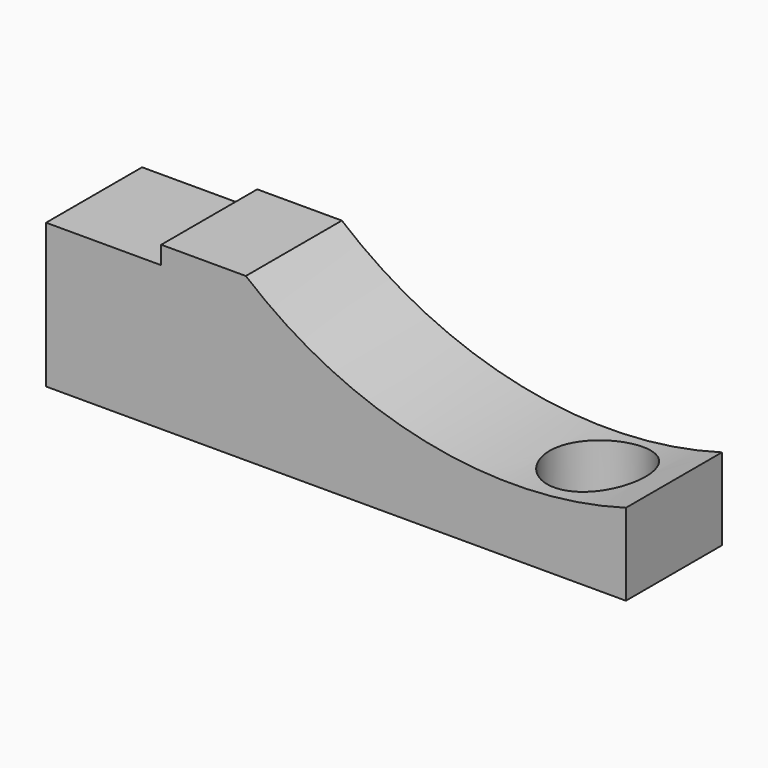
from build123d import *

# Parameters (mm, degrees)
F1_DEPTH = 25.4
F3_D     = 20.32


with BuildPart() as f1:
    # F0 (on Front) → F1 (new body)
    with BuildSketch(Plane.XZ):
        with BuildLine():
            Line((-68.265416, 0), (-68.265416, -30.535927))
            Line((-68.265416, -30.535927), (54.465521, -30.535927))
            Line((54.465521, -30.535927), (54.465521, -13.212661))
            ThreePointArc((54.465521, -13.212661), (12.125602, -14.688008), (-25.9849, 3.816991))
            Line((-25.9849, 3.816991), (-43.895394, 3.816991))
            Line((-43.895394, 3.816991), (-43.895394, 0))
            Line((-43.895394, 0), (-68.265416, 0))
        make_face()
    extrude(amount=F1_DEPTH)

    # F3 (through all)
    with Locations(Plane.XY):
        with Locations((38.023103, -12.331817)):
            Hole(F3_D / 2)


solid = f1.part
